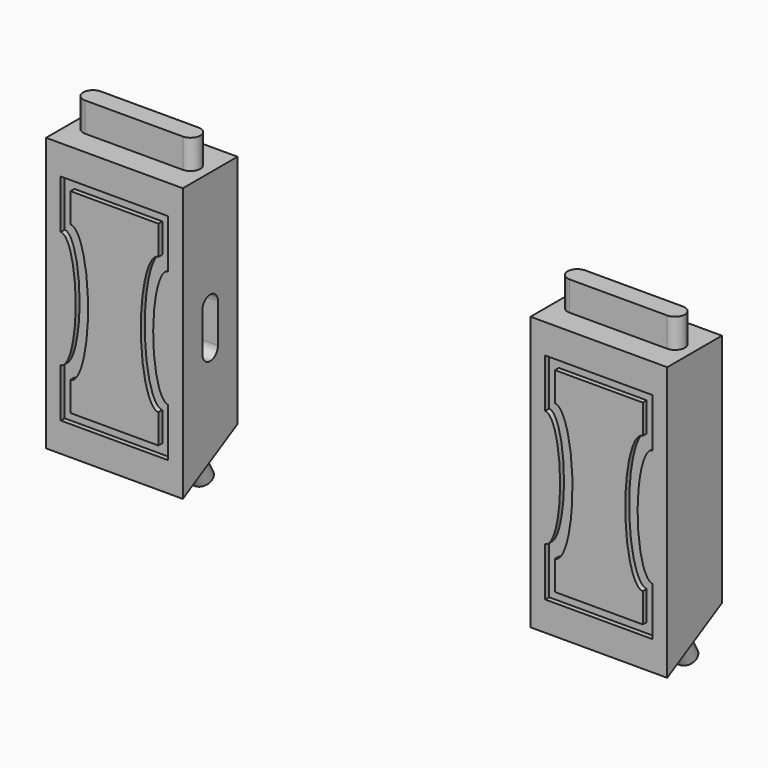
from build123d import *

# Parameters (mm, degrees)
F0_W      = 88.9
F0_H      = 177.8
F1_DEPTH  = 22.225
F3_DEPTH  = 19.05
F5_DEPTH  = 3.175
F7_DEPTH  = 88.9
F9_DEPTH  = 19.05
F12_DEPTH = 19.05
F14_DEPTH = 19.05


with BuildPart() as f1:
    # F0 (on Front) → F1 (new body, symmetric)
    with BuildSketch(Plane.XZ):
        Rectangle(F0_W, F0_H)
    extrude(amount=F1_DEPTH, both=True)

    # F2 (on face) → F3 (join)
    with BuildSketch(Plane.XY.offset(88.9)):
        with BuildLine():
            Line((31.75, 6.35), (-31.75, 6.35))
            ThreePointArc((-31.75, 6.35), (-38.1, 0), (-31.75, -6.35))
            Line((-31.75, -6.35), (31.75, -6.35))
            ThreePointArc((31.75, -6.35), (38.1, 0), (31.75, 6.35))
        make_face()
    extrude(amount=F3_DEPTH)

    # F4 (on face) → F5 (cut)
    with BuildSketch(Plane.XZ.offset(22.225)):
        with BuildLine():
            Line((34.925, 69.85), (-34.925, 69.85))
            Line((-34.925, 69.85), (-34.925, 38.1))
            add(Edge.make_bspline(
                [(-34.4770654637, 38.0597534694), (-34.7009143766, 38.1), (-34.925, 38.1)],
                knots=[6.2372173746, 6.2372173746, 6.2372173746, 6.2831853072, 6.2831853072, 6.2831853072], degree=2, weights=[1, 0.9997358803, 1]))
            add(Edge.make_bspline(
                [(-34.4770654637, -38.0597534694), (-25.1770670159, -36.3876762294), (-25.1770670159, 0), (-25.1770670159, 36.3876762294), (-34.4770654637, 38.0597534694)],
                knots=[3.1875605862, 3.1875605862, 3.1875605862, 4.7123889804, 4.7123889804, 6.2372173746, 6.2372173746, 6.2372173746], degree=2, weights=[1, 0.7231707079, 1, 0.7231707079, 1]))
            add(Edge.make_bspline(
                [(-34.925, -38.1), (-34.7009143766, -38.1), (-34.4770654637, -38.0597534694)],
                knots=[3.1415926536, 3.1415926536, 3.1415926536, 3.1875605862, 3.1875605862, 3.1875605862], degree=2, weights=[1, 0.9997358803, 1]))
            Line((-34.925, -38.1), (-34.925, -69.85))
            Line((-34.925, -69.85), (34.925, -69.85))
            Line((34.925, -69.85), (34.925, -38.1))
            add(Edge.make_bspline(
                [(34.925, 38.1), (25.1770670159, 38.1), (25.1770670159, 0), (25.1770670159, -38.1), (34.925, -38.1)],
                knots=[0, 0, 0, 1.5707963268, 1.5707963268, 3.1415926536, 3.1415926536, 3.1415926536], degree=2, weights=[1, 0.7071067812, 1, 0.7071067812, 1]))
            Line((34.925, 38.1), (34.925, 69.85))
        make_face()
        with BuildLine():
            Line((-28.575, 44.45), (-28.575, 63.5))
            Line((-28.575, 63.5), (28.575, 63.5))
            Line((28.575, 63.5), (28.575, 44.45))
            add(Edge.make_bspline(
                [(28.575, 44.45), (17.149786189, 44.45), (17.149786189, 0), (17.149786189, -44.45), (28.575, -44.45)],
                knots=[0, 0, 0, 1.5707963268, 1.5707963268, 3.1415926536, 3.1415926536, 3.1415926536], degree=2, weights=[1, 0.7071067812, 1, 0.7071067812, 1]))
            Line((28.575, -44.45), (28.575, -63.5))
            Line((28.575, -63.5), (-28.575, -63.5))
            Line((-28.575, -63.5), (-28.575, -44.45))
            add(Edge.make_bspline(
                [(-28.575, -44.45), (-17.149786189, -44.45), (-17.149786189, 0), (-17.149786189, 44.45), (-28.575, 44.45)],
                knots=[3.1415926536, 3.1415926536, 3.1415926536, 4.7123889804, 4.7123889804, 6.2831853072, 6.2831853072, 6.2831853072], degree=2, weights=[1, 0.7071067812, 1, 0.7071067812, 1]))
        make_face(mode=Mode.SUBTRACT)
    extrude(amount=-F5_DEPTH, mode=Mode.SUBTRACT)

    # F6 (on face) → F7 (cut)
    with BuildSketch(Plane.YZ.offset(44.45)):
        Polygon((22.225, -64.1443201671), (-22.225, -88.9), (22.225, -88.9), align=None)
    extrude(amount=-F7_DEPTH, mode=Mode.SUBTRACT)

    # F8 (on face) → F9 (join)
    with BuildSketch(Plane(origin=(0, 32.528283645, -58.4060796465), x_dir=(1, 0, 0), z_dir=(0, 0.4865623605, -0.8736458489))):
        with BuildLine():
            ThreePointArc((-31.75, 43.5828028396), (-38.1, 37.2328028396), (-31.75, 30.8828028396))
            Line((-31.75, 30.8828028396), (31.75, 30.8828028396))
            ThreePointArc((31.75, 30.8828028396), (38.1, 37.2328028396), (31.75, 43.5828028396))
            Line((31.75, 43.5828028396), (-31.75, 43.5828028396))
        make_face()
    extrude(amount=F9_DEPTH)


with BuildPart() as f10_1:
    # F10: copy of F1
    add(f1.part.moved(Location((-314.96, 0, 0))))

    # F13 (on face) → F14 (cut)
    with BuildSketch(Plane.YZ.offset(-270.51)):
        with BuildLine():
            ThreePointArc((-6.35, -12.7000034092), (0, -19.0500034092), (6.35, -12.7000034092))
            Line((6.35, -12.7000034092), (6.35, 12.6999965908))
            ThreePointArc((6.35, 12.6999965908), (0, 19.0499965908), (-6.35, 12.6999965908))
            Line((-6.35, 12.6999965908), (-6.35, -12.7000034092))
        make_face()
    extrude(amount=-F14_DEPTH, mode=Mode.SUBTRACT)


with BuildPart() as f1_1:
    add(f1.part)

    # F11 (on face) → F12 (cut)
    with BuildSketch(Plane(origin=(-44.45, 0, 0), x_dir=(0, -1, 0), z_dir=(-1, 0, 0))):
        with BuildLine():
            ThreePointArc((-6.35, -12.7), (0, -19.05), (6.35, -12.7))
            Line((6.35, -12.7), (6.35, 12.7))
            ThreePointArc((6.35, 12.7), (0, 19.05), (-6.35, 12.7))
            Line((-6.35, 12.7), (-6.35, -12.7))
        make_face()
    extrude(amount=-F12_DEPTH, mode=Mode.SUBTRACT)


solid = Compound([f10_1.part, f1_1.part])
